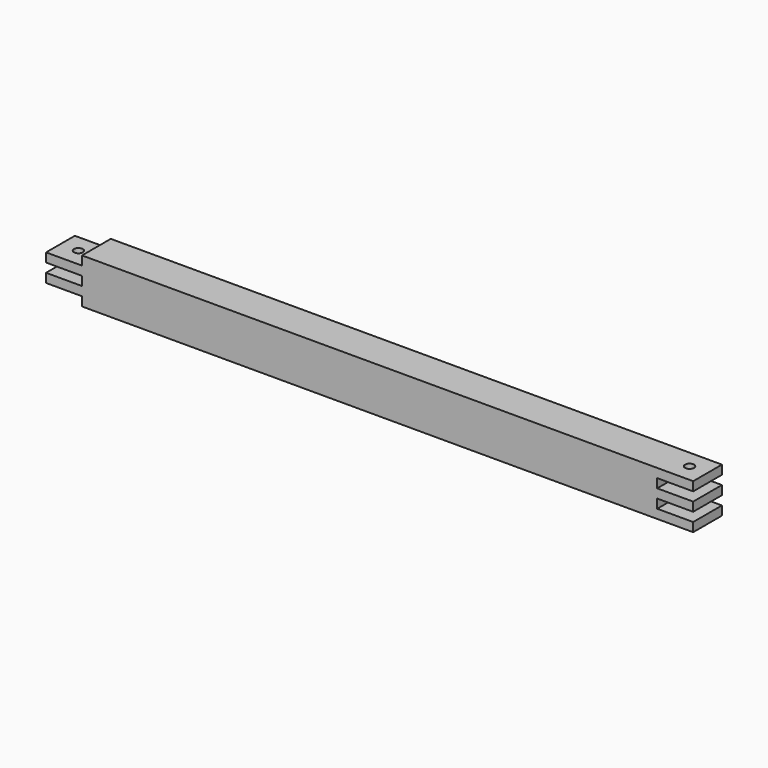
from build123d import *

# Parameters (mm, degrees)
SKETCH_W        = 457.2
SKETCH_H        = 31.75
PAD_DEPTH       = 25.4
SKETCH001_W     = 25.4
SKETCH001_H     = 6.35
POCKET_DEPTH    = 25.401
SKETCH002_W     = 25.4
SKETCH002_H     = 6.35
POCKET001_DEPTH = 25.401
SKETCH003_R     = 3.175
POCKET002_DEPTH = 31.751


with BuildPart() as part:
    # Sketch → Pad (new body)
    with BuildSketch(Plane.XZ):
        Rectangle(SKETCH_W, SKETCH_H)
    extrude(amount=PAD_DEPTH)

    # Sketch001 (on Face6 of Pad) → Pocket (cut, through all)
    with BuildSketch(Plane.XZ.offset(25.4)):
        with Locations((-215.9, 12.7)):
            Rectangle(SKETCH001_W, SKETCH001_H)
        with Locations((-215.9, 0)):
            Rectangle(SKETCH001_W, SKETCH001_H)
        with Locations((-215.9, -12.7)):
            Rectangle(SKETCH001_W, SKETCH001_H)
    extrude(amount=-POCKET_DEPTH, mode=Mode.SUBTRACT)

    # Sketch002 (on Face6 of Pad) → Pocket001 (cut, through all)
    with BuildSketch(Plane.XZ.offset(25.4)):
        with Locations((215.9, 6.35)):
            Rectangle(SKETCH002_W, SKETCH002_H)
        with Locations((215.9, -6.35)):
            Rectangle(SKETCH002_W, SKETCH002_H)
    extrude(amount=-POCKET001_DEPTH, mode=Mode.SUBTRACT)

    # Sketch003 (on Face21 of Pocket001) → Pocket002 (cut, through all)
    with BuildSketch(Plane(origin=(0, 0, 15.875), x_dir=(-1, 0, 0), z_dir=(0, 0, 1))):
        with Locations((215.9, 12.7)):
            Circle(SKETCH003_R)
        with Locations((-215.9, 12.7)):
            Circle(SKETCH003_R)
    extrude(amount=-POCKET002_DEPTH, mode=Mode.SUBTRACT)


solid = part.part
